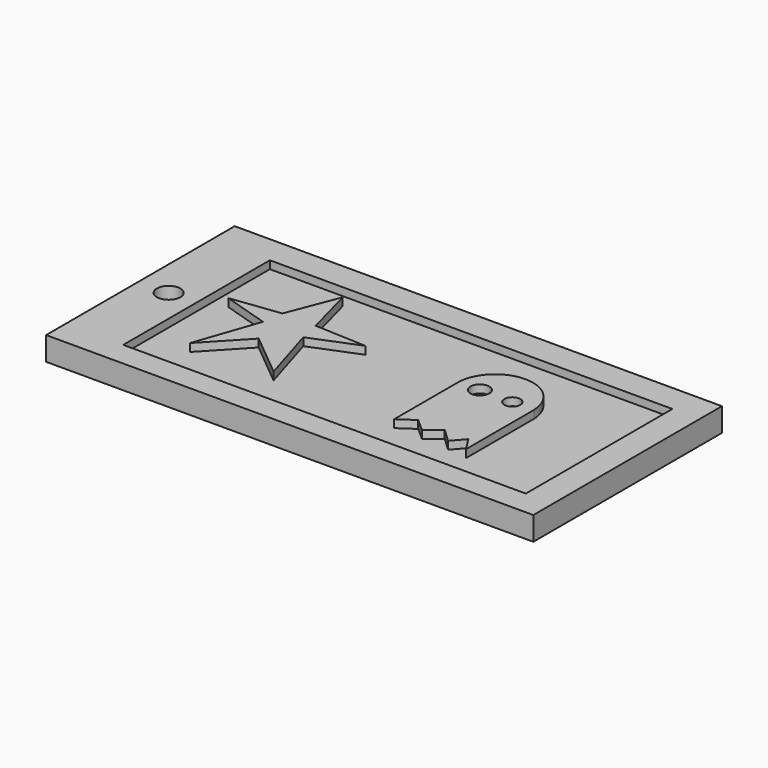
from build123d import *

# Parameters (mm, degrees)
SKETCH_W        = 62
SKETCH_H        = 30
PAD_DEPTH       = 3
SKETCH001_W     = 51.222641
SKETCH001_H     = 23.315135
POCKET_DEPTH    = 1
SKETCH002_R     = 1.5
POCKET001_DEPTH = 3.001
PAD001_DEPTH    = 1
PAD002_DEPTH    = 1
SKETCH005_R     = 1.199553
SKETCH005_R_2   = 1.016367
POCKET002_DEPTH = 1


with BuildPart() as part:
    # Sketch → Pad (new body)
    with BuildSketch(Plane.XY):
        with Locations((-1.286613, 0.704456)):
            Rectangle(SKETCH_W, SKETCH_H)
    extrude(amount=PAD_DEPTH)

    # Sketch001 → Pocket (cut)
    with BuildSketch(Plane.XY.offset(3)):
        with Locations((0.632324, 0.504924)):
            Rectangle(SKETCH001_W, SKETCH001_H)
    extrude(amount=-POCKET_DEPTH, mode=Mode.SUBTRACT)

    # Sketch002 → Pocket001 (cut, through all)
    with BuildSketch(Plane.XY.offset(3)):
        with Locations((-28.453762, 0.41293)):
            Circle(SKETCH002_R)
    extrude(amount=-POCKET001_DEPTH, mode=Mode.SUBTRACT)

    # Sketch003 → Pad001 (new body)
    with BuildSketch(Plane.XY.offset(2)):
        Polygon((-16.856503, 3.99872), (-14.349889, 10.458068), (-12.61454, 3.99872), (-6.058784, 3.709493), (-12.036091, 1.299289), (-9.722297, -6.316956), (-15.313969, -1.689364), (-20.03797, -6.70259), (-17.242132, 1.395697), (-23.123034, 3.227453), align=None)
    extrude(amount=PAD001_DEPTH)

    # Sketch004 → Pad002 (new body)
    with BuildSketch(Plane.XY.offset(2)):
        with BuildLine():
            Line((6.033253, 3.5701), (6.033253, -6.826028))
            Line((6.033253, -6.826028), (8.010232, -5.476315))
            Line((8.010232, -5.476315), (9.649171, -6.922436))
            Line((9.649171, -6.922436), (11.384521, -5.476315))
            Line((11.384521, -5.476315), (13.119864, -7.115253))
            Line((13.119864, -7.115253), (14.469583, -5.572722))
            Line((14.469583, -5.572722), (15.636065, -7.404478))
            Line((15.636065, -7.404478), (15.636065, 3.375676))
            ThreePointArc((15.636065, 3.375676), (10.927253, 8.046213), (6.033253, 3.5701))
        make_face()
    extrude(amount=PAD002_DEPTH)

    # Sketch005 → Pocket002 (cut)
    with BuildSketch(Plane.XY.offset(3)):
        with Locations((8.755972, 3.403389)):
            Circle(SKETCH005_R)
        with Locations((12.882946, 3.403389)):
            Circle(SKETCH005_R_2)
    extrude(amount=-POCKET002_DEPTH, mode=Mode.SUBTRACT)


solid = part.part
